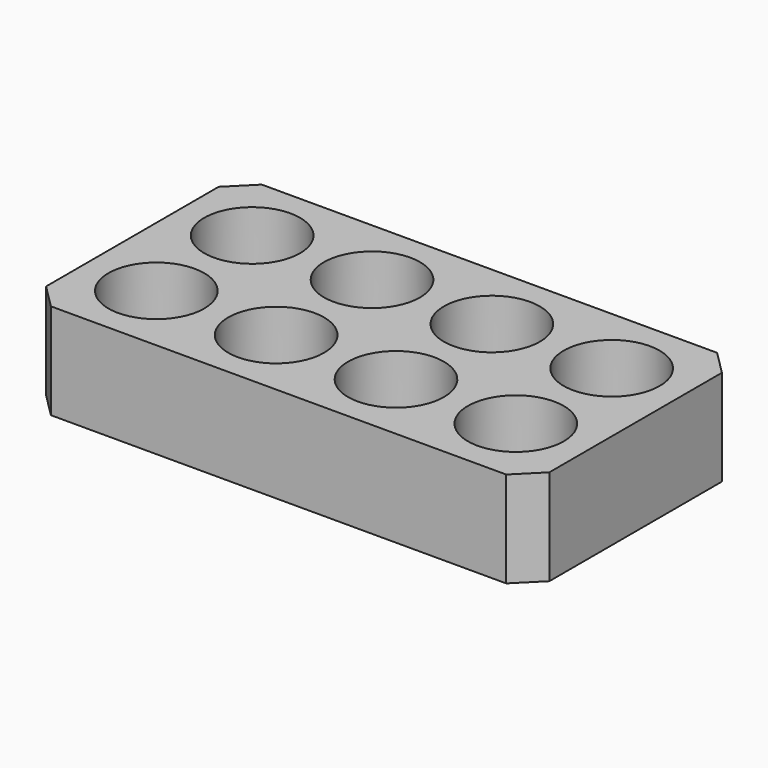
from build123d import *

# Parameters (mm, degrees)
F0_W     = 105
F0_H     = 55
F0_R     = 10
F1_DEPTH = 20
F3_SIZE  = 5
F4_T     = -0.6


with BuildPart() as f1:
    # F0 (on Top) → F1 (new body)
    with BuildSketch(Plane.XY):
        with Locations((52.5, 27.5)):
            Rectangle(F0_W, F0_H)
        with Locations((15, 15)):
            Circle(F0_R, mode=Mode.SUBTRACT)
        with Locations((40, 15)):
            Circle(F0_R, mode=Mode.SUBTRACT)
        with Locations((65, 15)):
            Circle(F0_R, mode=Mode.SUBTRACT)
        with Locations((90, 15)):
            Circle(F0_R, mode=Mode.SUBTRACT)
        with Locations((15, 40)):
            Circle(F0_R, mode=Mode.SUBTRACT)
        with Locations((40, 40)):
            Circle(F0_R, mode=Mode.SUBTRACT)
        with Locations((65, 40)):
            Circle(F0_R, mode=Mode.SUBTRACT)
        with Locations((90, 40)):
            Circle(F0_R, mode=Mode.SUBTRACT)
    extrude(amount=F1_DEPTH)

    # F3
    f3_edges = [f1.edges().sort_by_distance(p)[0] for p in [
        (0, 0, 10),
        (105, 0, 10),
        (105, 55, 10),
        (0, 55, 10),
    ]]
    chamfer(f3_edges, length=F3_SIZE)

    # F4
    f4_openings = [f1.faces().sort_by_distance(p)[0] for p in [
        (52.5, 27.5, 0),
    ]]
    offset(amount=F4_T, openings=f4_openings)


solid = f1.part
